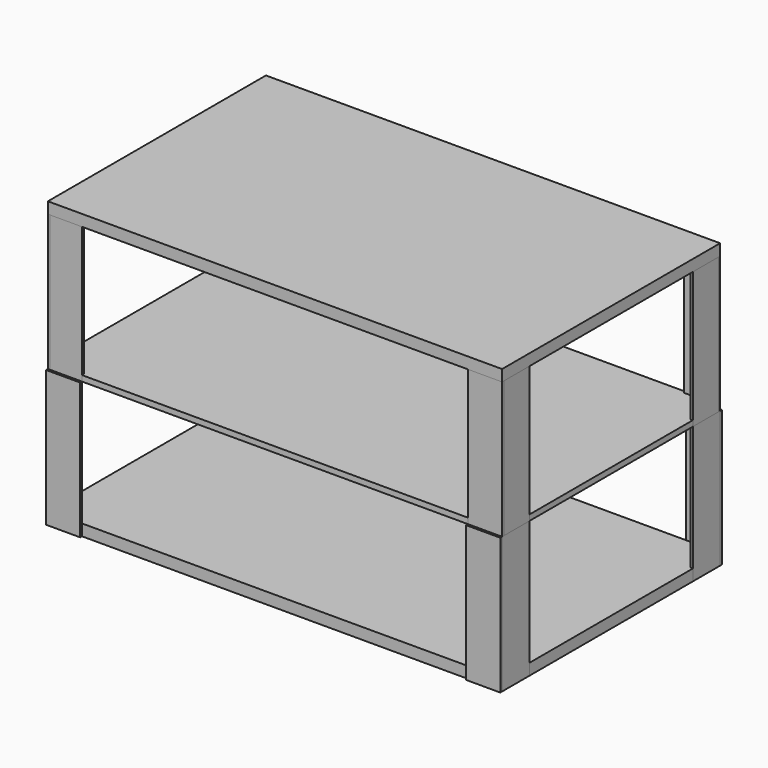
from build123d import *

# Parameters (mm, degrees)
F0_W      = 508
F0_H      = 304.8
F1_DEPTH  = 12.7
F2_W      = 38.1
F2_H      = 152.4
F4_DEPTH  = 2.54
F3_W      = 38.1
F3_H      = 152.4
F5_DEPTH  = 2.54
F9_W      = 508
F9_H      = 304.8
F10_DEPTH = 6.35
F14_ANGLE = 90


with BuildPart() as f1:
    # F0 (on Top) → F1 (new body)
    with BuildSketch(Plane.XY):
        Rectangle(F0_W, F0_H)
    extrude(amount=F1_DEPTH)


with BuildPart() as f4:
    # F2 (on Front) → F4 (new body)
    with BuildSketch(Plane.XZ):
        with Locations((19.05, 76.2)):
            Rectangle(F2_W, F2_H)
    extrude(amount=F4_DEPTH)


with BuildPart() as f5:
    # F3 (on Right) → F5 (new body)
    with BuildSketch(Plane.YZ):
        with Locations((19.05, 76.2)):
            Rectangle(F3_W, F3_H)
    extrude(amount=F5_DEPTH)


with BuildPart() as f4_1:
    # F6: moved
    add(f4.part.moved(Location((-254, -152.4, 0))))


with BuildPart() as f5_1:
    # F6: moved
    add(f5.part.moved(Location((-254, -152.4, 0))))


with BuildPart() as f7_1:
    # F7: instance of F5
    add(f5_1.part.mirror(Plane.YZ))


with BuildPart() as f7_2:
    # F7: instance of F4
    add(f4_1.part.mirror(Plane.YZ))


with BuildPart() as f8_1:
    # F8: instance of F7_1
    add(f7_1.part.mirror(Plane.XZ))


with BuildPart() as f8_2:
    # F8: instance of F7_2
    add(f7_2.part.mirror(Plane.XZ))


with BuildPart() as f8_3:
    # F8: instance of F5
    add(f5_1.part.mirror(Plane.XZ))


with BuildPart() as f8_4:
    # F8: instance of F4
    add(f4_1.part.mirror(Plane.XZ))


with BuildPart() as f10:
    # F9 (on face) → F10 (new body)
    with BuildSketch(Plane.XY.offset(152.4)):
        Rectangle(F9_W, F9_H)
    extrude(amount=F10_DEPTH)


with BuildPart() as f11_1:
    # F11: instance of F7_1
    add(f7_1.part.mirror(Plane(origin=(0, 0, 152.4), x_dir=(1, 0, 0), z_dir=(0, 0, -1))))


with BuildPart() as f12_1:
    # F12: instance of F11_1
    add(f11_1.part.mirror(Plane(origin=(0, -152.4, 155.575), x_dir=(1, 0, 0), z_dir=(0, -1, 0))))


with BuildPart() as f12_1_1:
    # F14: moved
    add(f12_1.part.rotate(Axis((254, -152.4, 228.6), (0, 0, -1)), F14_ANGLE))


with BuildPart() as f15_1:
    # F15: instance of F11_1
    add(f11_1.part.mirror(Plane.XZ))


with BuildPart() as f15_2:
    # F15: instance of F12_1
    add(f12_1_1.part.mirror(Plane.XZ))


with BuildPart() as f16_1:
    # F16: instance of F15_1
    add(f15_1.part.mirror(Plane.YZ))


with BuildPart() as f16_2:
    # F16: instance of F15_2
    add(f15_2.part.mirror(Plane.YZ))


with BuildPart() as f16_3:
    # F16: instance of F12_1
    add(f12_1_1.part.mirror(Plane.YZ))


with BuildPart() as f16_4:
    # F16: instance of F11_1
    add(f11_1.part.mirror(Plane.YZ))


with BuildPart() as f17_1:
    # F17: instance of F1
    add(f1.part.mirror(Plane.XY.offset(158.75)))


solid = Compound([f1.part, f4_1.part, f5_1.part, f7_1.part, f7_2.part, f8_1.part, f8_2.part, f8_3.part, f8_4.part, f10.part, f11_1.part, f12_1_1.part, f15_1.part, f15_2.part, f16_1.part, f16_2.part, f16_3.part, f16_4.part, f17_1.part])
